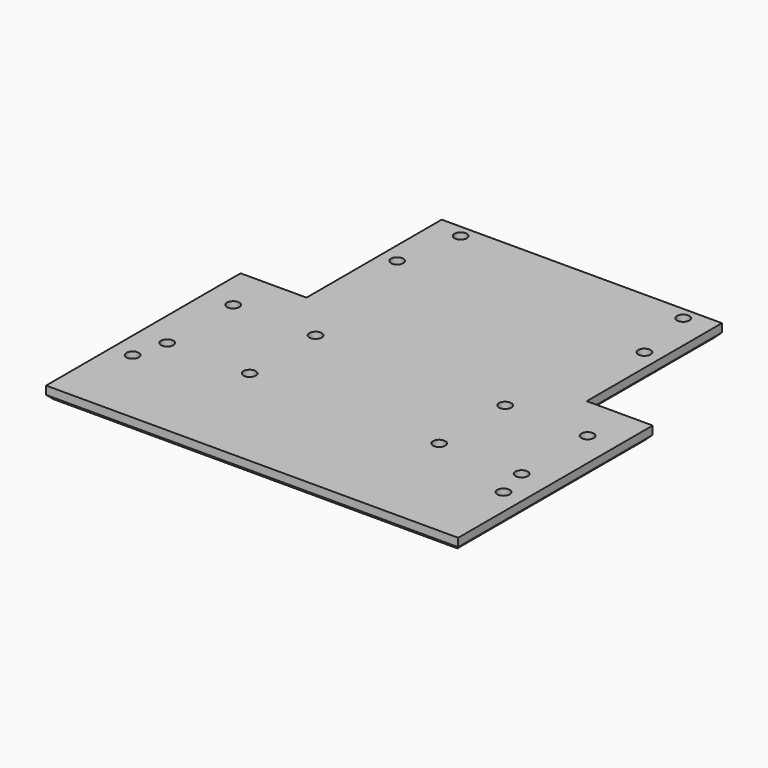
from build123d import *

# Parameters (mm, degrees)
F0_W     = 100
F0_H     = 100
F1_DEPTH = 3
F3_D     = 3
F4_W     = 16
F4_H     = 41
F5_DEPTH = 3
F7_D     = 3
F8_SIZE  = 1
F10_D    = 3


with BuildPart() as f1:
    # F0 (on Top) → F1 (new body)
    with BuildSketch(Plane.XY):
        Rectangle(F0_W, F0_H)
    extrude(amount=F1_DEPTH)

    # F3 (through all)
    with Locations(Plane.XY.offset(3)):
        with Locations((-30, 31.5), (30, 31.5)):
            Hole(F3_D / 2)

    # F4 (on face) → F5 (cut)
    with BuildSketch(Plane.XY.offset(3)):
        with Locations((-42, 29.5)):
            Rectangle(F4_W, F4_H)
        with Locations((42, 29.5)):
            Rectangle(F4_W, F4_H)
    extrude(amount=-F5_DEPTH, mode=Mode.SUBTRACT)

    # F7 (through all)
    with Locations(Plane.XY.offset(3)):
        with Locations((-43, -2), (-23, -2), (-23, -22), (-43, -22), (23, -2), (43, -2), (43, -22), (23, -22)):
            Hole(F7_D / 2)

    # F8
    f8_edges = [f1.edges().sort_by_distance(p)[0] for p in [
        (0, -50, 0),
        (-50, -20.5, 0),
        (-42, 9, 0),
        (-34, 29.5, 0),
        (0, 50, 0),
        (34, 29.5, 0),
        (42, 9, 0),
        (50, -20.5, 0),
    ]]
    chamfer(f8_edges, length=F8_SIZE)

    # F10 (through all)
    with Locations(Plane.XY.offset(3)):
        with Locations((-45, -30), (45, -30), (-27, 47), (27, 47)):
            Hole(F10_D / 2)


solid = f1.part
